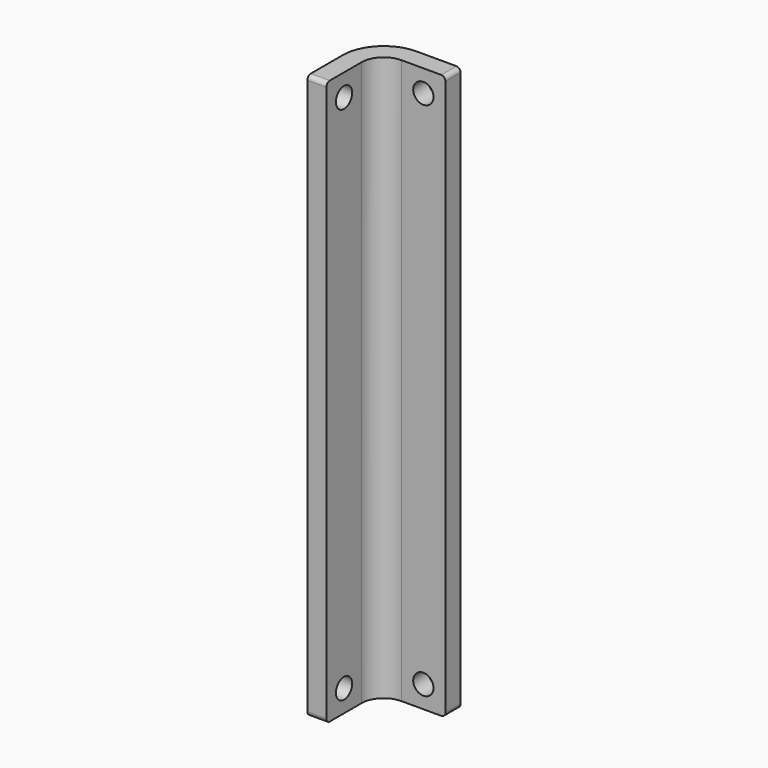
from build123d import *

# Parameters (mm, degrees)
F1_DEPTH = 101.6
F2_R     = 3.96748
F3_R     = 7.38632
F4_R     = 1.8288
F5_DEPTH = 3.41884
F6_R     = 1.8288
F7_DEPTH = 3.41884
F8_R     = 0.762


with BuildPart() as f1:
    # F0 (on Top) → F1 (new body)
    with BuildSketch(Plane.XY):
        Polygon((-3.41884, 0), (0, 0), (0, 11.90498), (11.90498, 11.90498), (11.90498, 15.32382), (-3.41884, 15.32382), align=None)
    extrude(amount=F1_DEPTH)

    # F2
    f2_edges = [f1.edges().sort_by_distance(p)[0] for p in [
        (0, 11.90498, 50.8),
    ]]
    fillet(f2_edges, radius=F2_R)

    # F3
    f3_edges = [f1.edges().sort_by_distance(p)[0] for p in [
        (-3.41884, 15.32382, 50.8),
    ]]
    fillet(f3_edges, radius=F3_R)

    # F4 (on face) → F5 (cut, through all)
    with BuildSketch(Plane(origin=(0, 15.32382, 0), x_dir=(-1, 0, 0), z_dir=(0, 1, 0))):
        with Locations((-7.93623, 97.63125)):
            Circle(F4_R)
        with Locations((-7.93623, 3.96875)):
            Circle(F4_R)
    extrude(amount=-F5_DEPTH, mode=Mode.SUBTRACT)

    # F6 (on face) → F7 (cut, through all)
    with BuildSketch(Plane(origin=(-3.41884, 0, 0), x_dir=(0, -1, 0), z_dir=(-1, 0, 0))):
        with Locations((-3.96875, 97.63125)):
            Circle(F6_R)
        with Locations((-3.96875, 3.96875)):
            Circle(F6_R)
    extrude(amount=-F7_DEPTH, mode=Mode.SUBTRACT)

    # F8
    f8_edges = [f1.edges().sort_by_distance(p)[0] for p in [
        (-1.70942, 0, 101.6),
        (11.90498, 13.6144, 101.6),
        (11.90498, 13.6144, 0),
        (-1.70942, 0, 0),
    ]]
    fillet(f8_edges, radius=F8_R)


solid = f1.part
